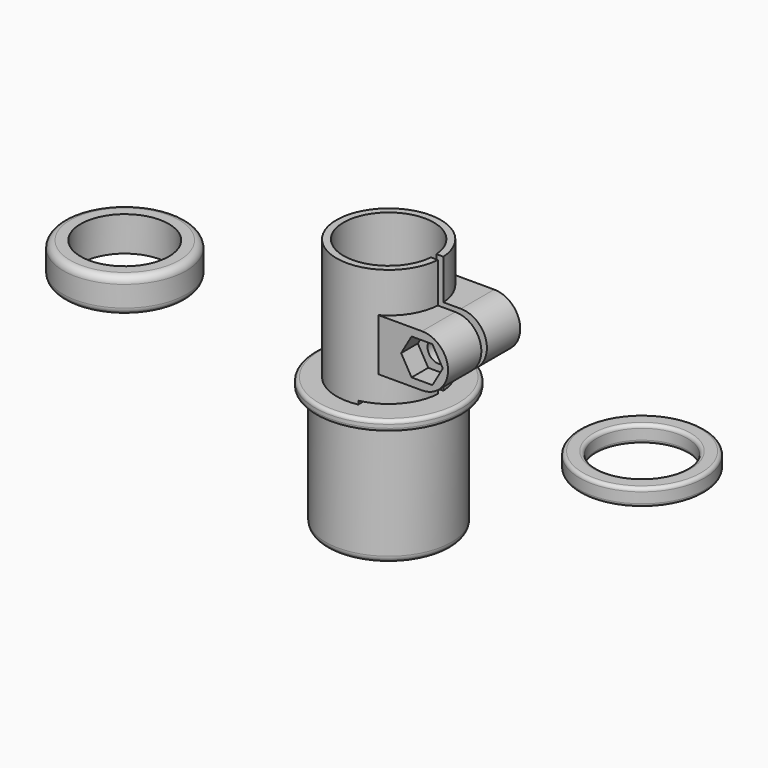
from build123d import *

# Parameters (mm, degrees)
SKETCH009_R     = 17.7
SKETCH009_R_2   = 12.7
PAD002_DEPTH    = 10
FILLET_R        = 2
FILLET001_R     = 2
SKETCH010_R     = 18
SKETCH010_R_2   = 13
PAD003_DEPTH    = 5
FILLET002_R     = 1
FILLET003_R     = 1
FILLET004_R     = 1
SKETCH001_W     = 80.348313
SKETCH001_H     = 4.16347
PAD_DEPTH       = 10
PAD001_DEPTH    = 13
POCKET_DEPTH    = 6
SKETCH004_R     = 3.2
POCKET001_DEPTH = 34.101
SKETCH005_W     = 40.061353
SKETCH005_H     = 2
POCKET002_DEPTH = 45.001
SKETCH006_W     = 38.876839
SKETCH006_H     = 33.387142
POCKET003_DEPTH = 1
SKETCH007_R     = 13
POCKET004_DEPTH = 83.001
SKETCH008_W     = 80.348313
SKETCH008_H     = 4.16347
POCKET005_DEPTH = 10
FILLET005_R     = 2
FILLET006_R     = 1
FILLET007_R     = 1


with BuildPart() as fillet001:
    # Sketch009 → Pad002 (new body)
    with BuildSketch(Plane.XY):
        with Locations((-76.019753, 0)):
            Circle(SKETCH009_R)
        with Locations((-76.019753, 0)):
            Circle(SKETCH009_R_2, mode=Mode.SUBTRACT)
    extrude(amount=PAD002_DEPTH)

    # Fillet
    fillet_edges = [fillet001.edges().sort_by_distance(p)[0] for p in [
        (-93.719753, 0, 10),
    ]]
    fillet(fillet_edges, radius=FILLET_R)

    # Fillet001
    fillet001_edges = [fillet001.edges().sort_by_distance(p)[0] for p in [
        (-93.719753, 0, 0),
    ]]
    fillet(fillet001_edges, radius=FILLET001_R)


with BuildPart() as fillet004:
    # Sketch010 → Pad003 (new body)
    with BuildSketch(Plane.XY):
        with Locations((72.988785, 0)):
            Circle(SKETCH010_R)
        with Locations((72.988785, 0)):
            Circle(SKETCH010_R_2, mode=Mode.SUBTRACT)
    extrude(amount=PAD003_DEPTH)

    # Fillet002
    fillet002_edges = [fillet004.edges().sort_by_distance(p)[0] for p in [
        (59.988785, 0, 5),
    ]]
    fillet(fillet002_edges, radius=FILLET002_R)

    # Fillet003
    fillet003_edges = [fillet004.edges().sort_by_distance(p)[0] for p in [
        (59.988785, 0, 0),
    ]]
    fillet(fillet003_edges, radius=FILLET003_R)

    # Fillet004
    fillet004_edges = [fillet004.edges().sort_by_distance(p)[0] for p in [
        (54.988785, 0, 5),
        (54.988785, 0, 0),
    ]]
    fillet(fillet004_edges, radius=FILLET004_R)


with BuildPart() as fillet007:
    # Sketch → Revolution (revolve)
    with BuildSketch(Plane.XZ):
        Polygon((13, 35), (13, -38), (18.1, -38), (18.1, -3), (21.1, -3), (21.1, 0), (15, 0), (15, 35), align=None)
    revolve(axis=Axis((0, 0, 0), (0, 0, 1)))

    # Sketch001 → Pad (new body)
    with BuildSketch(Plane(origin=(0, 0, 35), x_dir=(-1, 0, 0), z_dir=(0, 0, 1))):
        with Locations((0.529807, -2.081735)):
            Rectangle(SKETCH001_W, SKETCH001_H)
    extrude(amount=PAD_DEPTH)

    # Sketch002 → Pad001 (new body, symmetric)
    with BuildSketch(Plane.XZ):
        with BuildLine():
            Line((20, 23.436), (5, 23.436))
            Line((5, 23.436), (5, 8.436))
            Line((5, 8.436), (20, 8.436))
            ThreePointArc((20, 8.436), (27.5, 15.936), (20, 23.436))
        make_face()
    extrude(amount=PAD001_DEPTH, both=True)

    # Sketch003 → Pocket (cut)
    with BuildSketch(Plane.XZ.offset(13)):
        Polygon((23.002221, 10.736), (26.004443, 15.936), (23.002221, 21.136), (16.997779, 21.136), (13.995557, 15.936), (16.997779, 10.736), align=None)
    pocket = extrude(amount=-POCKET_DEPTH, mode=Mode.SUBTRACT)

    # Mirrored: Pocket across face of Pocket
    add(pocket.mirror(Plane(origin=(-0.529806, 0, 40), x_dir=(1, 0, 0), z_dir=(0, -1, 0))), mode=Mode.SUBTRACT)

    # Sketch004 → Pocket001 (cut, through all)
    with BuildSketch(Plane.XZ.offset(13)):
        with Locations((20, 15.936)):
            Circle(SKETCH004_R)
    extrude(amount=-POCKET001_DEPTH, mode=Mode.SUBTRACT)

    # Sketch005 → Pocket002 (cut, through all)
    with BuildSketch(Plane(origin=(0, 0, 0), x_dir=(-1, 0, 0), z_dir=(0, 0, 1))):
        with Locations((-20.030676, 0)):
            Rectangle(SKETCH005_W, SKETCH005_H)
    extrude(amount=POCKET002_DEPTH, mode=Mode.SUBTRACT)

    # Sketch006 → Pocket003 (cut)
    with BuildSketch(Plane(origin=(0, 0, 0), x_dir=(-1, 0, 0), z_dir=(0, 0, 1))):
        with Locations((-22.438419, 0)):
            Rectangle(SKETCH006_W, SKETCH006_H)
    extrude(amount=POCKET003_DEPTH, mode=Mode.SUBTRACT)

    # Sketch007 → Pocket004 (cut, through all)
    with BuildSketch(Plane(origin=(0, 0, -38), x_dir=(1, 0, 0), z_dir=(0, 0, -1))):
        Circle(SKETCH007_R)
    extrude(amount=-POCKET004_DEPTH, mode=Mode.SUBTRACT)

    # Sketch008 → Pocket005 (cut)
    with BuildSketch(Plane(origin=(0, 0, 45), x_dir=(-1, 0, 0), z_dir=(0, 0, 1))):
        with Locations((0.529807, -2.081735)):
            Rectangle(SKETCH008_W, SKETCH008_H)
    extrude(amount=-POCKET005_DEPTH, mode=Mode.SUBTRACT)

    # Fillet005
    fillet005_edges = [fillet007.edges().sort_by_distance(p)[0] for p in [
        (-18.1, 0, -38),
    ]]
    fillet(fillet005_edges, radius=FILLET005_R)

    # Fillet006
    fillet006_edges = [fillet007.edges().sort_by_distance(p)[0] for p in [
        (-21.1, 0, -3),
    ]]
    fillet(fillet006_edges, radius=FILLET006_R)

    # Fillet007
    fillet007_edges = [fillet007.edges().sort_by_distance(p)[0] for p in [
        (-21.1, 0, 0),
        (18.714999, -9.74468, 0),
        (21.094072, -0.500141, 0),
        (21.094072, 0.500141, 0),
        (18.714999, 9.74468, 0),
    ]]
    fillet(fillet007_edges, radius=FILLET007_R)


solid = Compound([fillet001.part, fillet004.part, fillet007.part])
